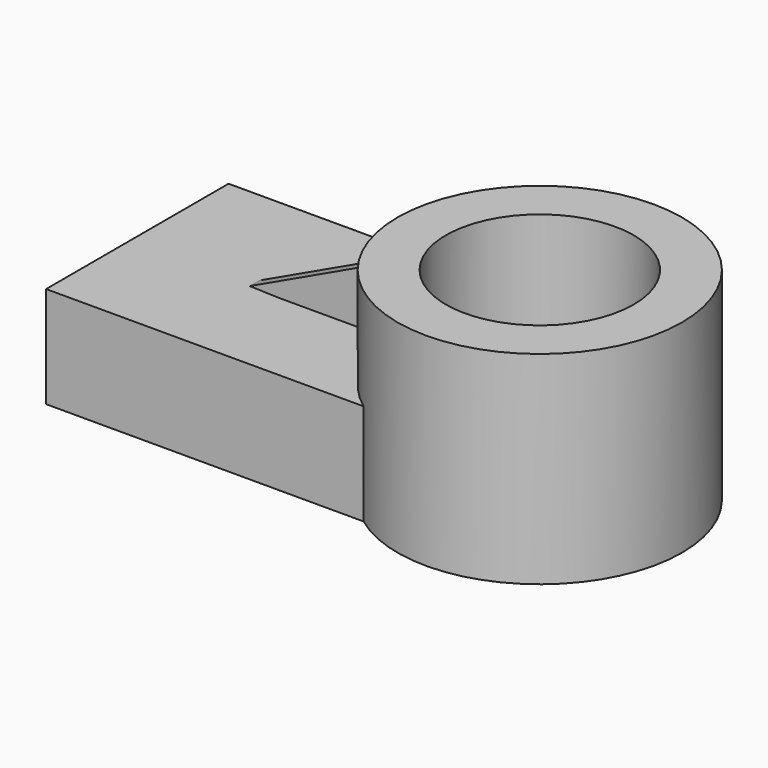
from build123d import *

# Parameters (mm, degrees)
F0_R     = 17.819114
F1_DEPTH = 25.4
F2_W     = 50.421048
F2_H     = 28.575002
F3_DEPTH = 12.7
F4_R     = 11.764815
F5_DEPTH = 25.4
F7_DEPTH = 1.524


with BuildPart() as f1:
    # F0 (on Top) → F1 (new body)
    with BuildSketch(Plane.XY):
        Circle(F0_R)
    extrude(amount=F1_DEPTH)

    # F2 (on Top) → F3 (join)
    with BuildSketch(Plane.XY):
        with Locations((-25.210524, 0)):
            Rectangle(F2_W, F2_H)
    extrude(amount=F3_DEPTH)

    # F4 (on Top) → F5 (cut)
    with BuildSketch(Plane.XY):
        Circle(F4_R)
    extrude(amount=F5_DEPTH, mode=Mode.SUBTRACT)

    # F6 (on Front) → F7 (join)
    with BuildSketch(Plane.XZ):
        Polygon((-17.237177, 21.292984), (-35.119597, 12.812662), (-17.237177, 12.259597), align=None)
    extrude(amount=F7_DEPTH)


solid = f1.part
